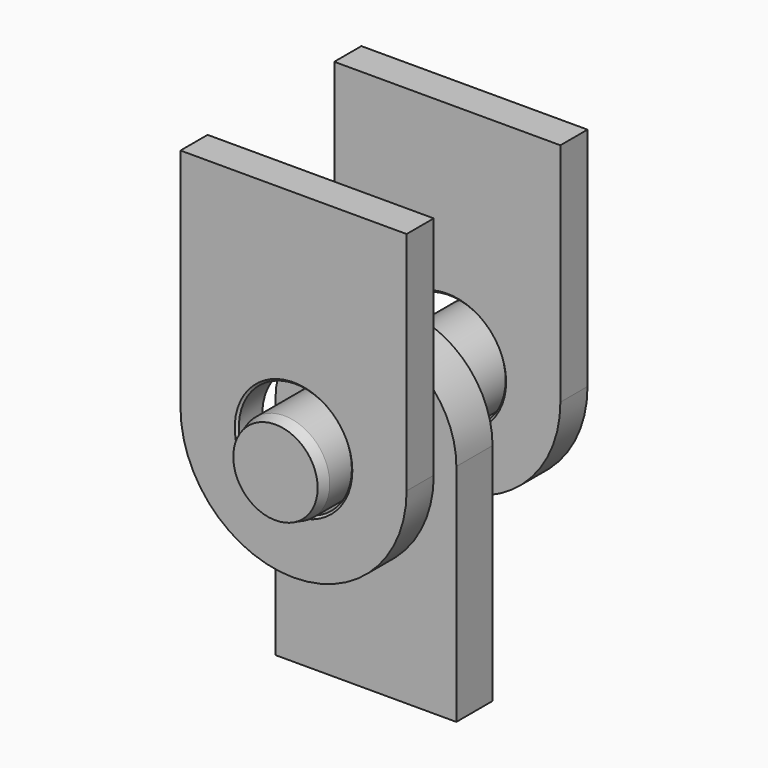
from build123d import *

# Parameters (mm, degrees)
F1_START = 35
F0_R     = 25
F1_DEPTH = 15
F2_SIZE  = 1
F3_R     = 25
F4_DEPTH = 10
F5_SIZE  = 1
F7_R     = 20
F8_DEPTH = 60
F9_SIZE2 = 1.3397459622
F9_SIZE  = 5


with BuildPart() as f1:
    # F0 (on Front) → F1 (new body)
    with BuildSketch(Plane.XZ.offset(F1_START)):
        with BuildLine():
            Line((-50, 100), (-50, 0))
            ThreePointArc((-50, 0), (0, -50), (50, 0))
            Line((50, 0), (50, 100))
            Line((50, 100), (-50, 100))
        make_face()
        Circle(F0_R, mode=Mode.SUBTRACT)
    extrude(amount=F1_DEPTH)

    # F2
    f2_edges = [f1.edges().sort_by_distance(p)[0] for p in [
        (-25, -50, 0),
        (-25, -35, 0),
    ]]
    chamfer(f2_edges, length=F2_SIZE)


with BuildPart() as f4:
    # F3 (on Front) → F4 (new body, symmetric)
    with BuildSketch(Plane.XZ):
        with BuildLine():
            Line((40, -109.4460245647), (40, -10))
            ThreePointArc((40, -10), (0, 30), (-40, -10))
            Line((-40, -10), (-40, -109.4460245647))
            Line((-40, -109.4460245647), (40, -109.4460245647))
        make_face()
        with Locations((0, -10)):
            Circle(F3_R, mode=Mode.SUBTRACT)
    extrude(amount=F4_DEPTH, both=True)

    # F5
    f5_edges = [f4.edges().sort_by_distance(p)[0] for p in [
        (-25, -10, -10),
        (25, 0, -10),
        (-25, 10, -10),
    ]]
    chamfer(f5_edges, length=F5_SIZE)


with BuildPart() as f6_1:
    # F6: instance of F1
    add(f1.part.mirror(Plane.XZ))


with BuildPart() as f8:
    # F7 (on Front) → F8 (new body, symmetric)
    with BuildSketch(Plane.XZ):
        with Locations((0, -5)):
            Circle(F7_R)
    extrude(amount=F8_DEPTH, both=True)

    # F9
    f9_edges = [f8.edges().sort_by_distance(p)[0] for p in [
        (-20, -60, -5),
        (-20, 60, -5),
    ]]
    f9_side = f8.faces().sort_by_distance((-20, 0, -5))[0]
    chamfer(f9_edges, length=F9_SIZE, length2=F9_SIZE2, reference=f9_side)


solid = Compound([f1.part, f4.part, f6_1.part, f8.part])
